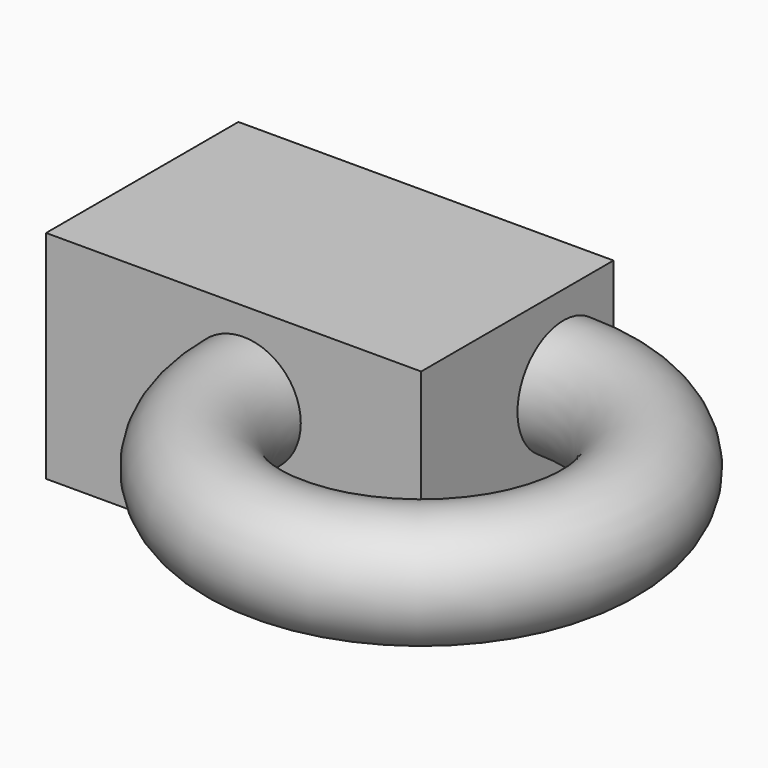
from build123d import *

# Parameters (mm, degrees)
F0_W     = 106.939908
F0_H     = 68.533545
F1_DEPTH = 61.722
F2_R     = 16.345967


with BuildPart() as f1:
    # F0 (on Top) → F1 (new body)
    with BuildSketch(Plane.XY):
        with Locations((2.724791, 14.186409)):
            Rectangle(F0_W, F0_H)
    extrude(amount=F1_DEPTH)

    # F2 (on face) → F3 (revolve)
    with BuildSketch(Plane.XZ.offset(20.080363)):
        with Locations((5.529338, 37.59056)):
            Circle(F2_R)
    revolve(axis=Axis((56.194745, -20.080363, 30.861), (0, 0, 1)))


solid = f1.part
